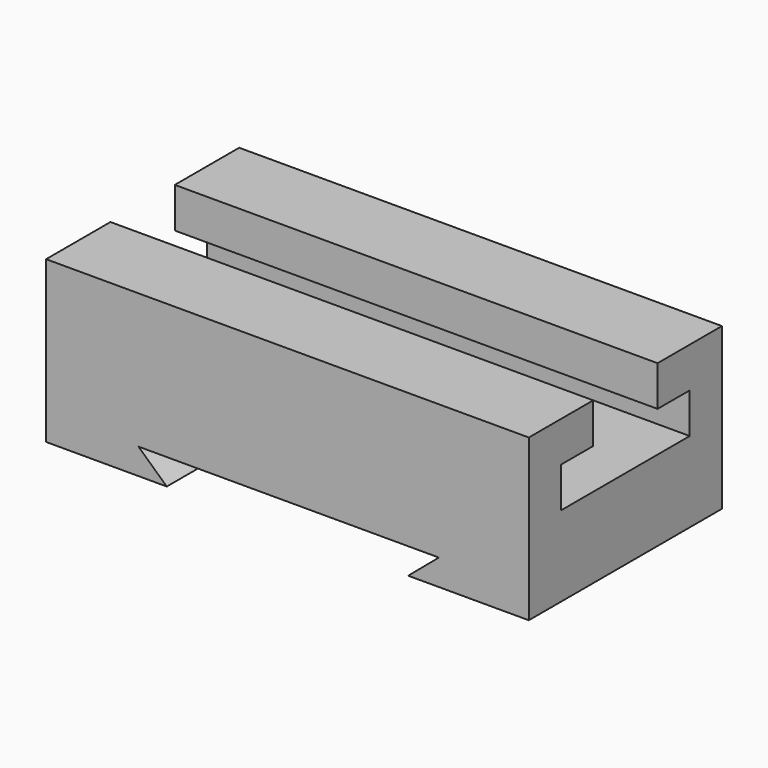
from build123d import *

# Parameters (mm, degrees)
F1_DEPTH = 12.7
F2_DEPTH = 63.5
F4_DEPTH = 152.4


with BuildPart() as f1:
    # F0 (on Front) → F1 (new body)
    with BuildSketch(Plane.XZ):
        Polygon((70.26572, 50.8), (-82.13428, 50.8), (-82.13428, 12.7), (-82.13428, 0), (-44.03428, 0), (-52.956261, 8.196775), (41.866384, 8.196775), (32.16572, 0), (70.26572, 0), (70.26572, 12.7), align=None)
    extrude(amount=F1_DEPTH)

    # F1_face (on face) → F2 (join)
    with BuildSketch(Plane(origin=(-5.954362, -12.7, 27.505722), x_dir=(1, 0, 0), z_dir=(0, -1, 0))):
        Polygon((76.220082, -27.505722), (76.220082, 23.294278), (-76.179918, 23.294278), (-76.179918, -27.505722), (-38.079918, -27.505722), (-47.001898, -19.308948), (47.820747, -19.308948), (38.120082, -27.505722), align=None)
    extrude(amount=F2_DEPTH)

    # F3 (on face) → F4 (cut, through all)
    with BuildSketch(Plane.YZ.offset(70.26572)):
        Polygon((-25.4, 50.8), (-50.8, 50.8), (-50.8, 38.1), (-63.5, 38.1), (-63.5, 25.387337), (-12.7, 25.4), (-12.7, 38.1), (-25.4, 38.1), align=None)
    extrude(amount=-F4_DEPTH, mode=Mode.SUBTRACT)


solid = f1.part
